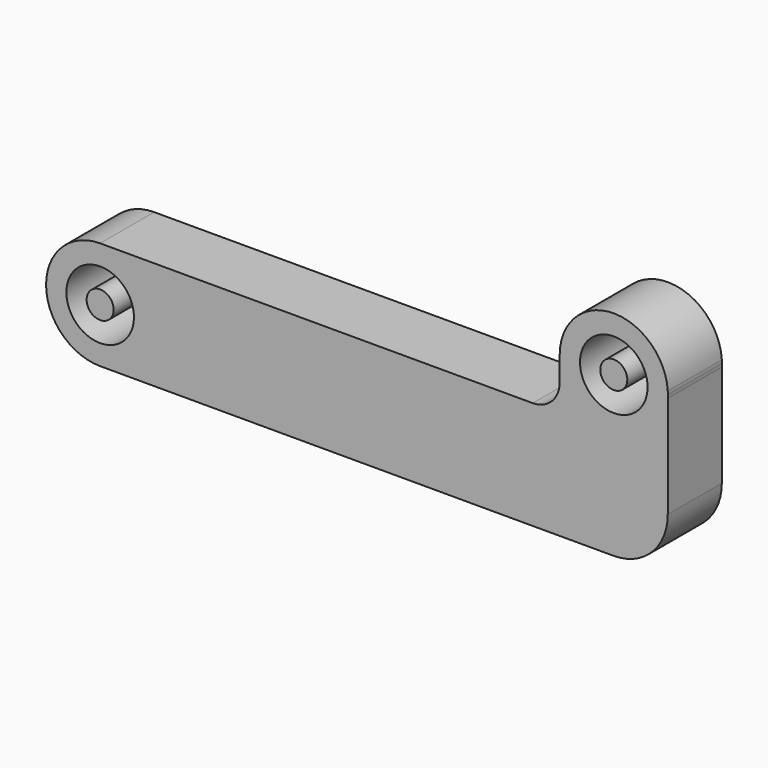
from build123d import *

# Parameters (mm, degrees)
F0_R     = 2.5
F0_R_2   = 1
F1_DEPTH = 5


with BuildPart() as f1:
    # F0 (on Front) → F1 (new body)
    with BuildSketch(Plane.XZ):
        with BuildLine():
            ThreePointArc((0, -4), (2.828427, -2.828427), (4, 0))
            ThreePointArc((4, 0), (2.828427, 2.828427), (0, 4))
            ThreePointArc((0, 4), (-4, 0), (0, -4))
        make_face()
        Circle(F0_R, mode=Mode.SUBTRACT)
        with BuildLine():
            ThreePointArc((0, 4), (2.828427, 2.828427), (4, 0))
            ThreePointArc((4, 0), (2.828427, -2.828427), (0, -4))
            Line((0, -4), (37.992826, -4))
            ThreePointArc((37.992826, -4), (40.821253, -2.828427), (41.992826, 0))
            Line((41.992826, 0), (41.992826, 7.560543))
            ThreePointArc((41.992826, 7.560543), (37.880218, 3.801794), (34, 7.8))
            Line((34, 7.8), (34, 6))
            ThreePointArc((34, 6), (33.414214, 4.585786), (32, 4))
            Line((32, 4), (0, 4))
        make_face()
        with BuildLine():
            ThreePointArc((41.992826, 8.039457), (37.880218, 11.798206), (34, 7.8))
            ThreePointArc((34, 7.8), (37.880218, 3.801794), (41.992826, 7.560543))
            Line((41.992826, 7.560543), (41.992826, 8.039457))
        make_face()
        with Locations((38, 7.8)):
            Circle(F0_R, mode=Mode.SUBTRACT)
        with BuildLine():
            Line((41.992826, 8.039457), (41.992826, 7.560543))
            ThreePointArc((41.992826, 7.560543), (41.998206, 7.680218), (42, 7.8))
            ThreePointArc((42, 7.8), (41.998206, 7.919782), (41.992826, 8.039457))
        make_face()
        Circle(F0_R_2)
        with Locations((38, 7.8)):
            Circle(F0_R_2)
    extrude(amount=F1_DEPTH)


solid = f1.part
